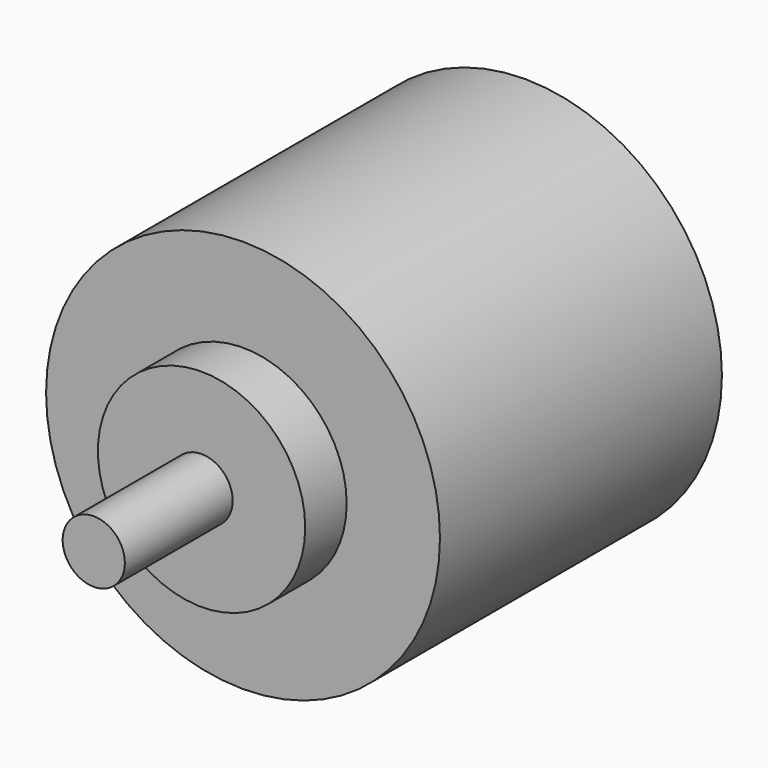
from build123d import *

# Parameters (mm, degrees)
SKETCH002_R  = 19
PAD002_DEPTH = 34
SKETCH036_R  = 10
PAD025_DEPTH = 5
SKETCH037_R  = 3
PAD026_DEPTH = 13


with BuildPart() as encoder:
    # Sketch002 → Pad002 (new body)
    with BuildSketch(Plane(origin=(0, 82, 3), x_dir=(1, 0, 0), z_dir=(0, -1, 0))):
        with Locations((38, -5)):
            Circle(SKETCH002_R)
    extrude(amount=-PAD002_DEPTH)


with BuildPart() as encoder_shaft:
    # Sketch036 → Pad025 (new body)
    with BuildSketch(Plane.XZ.offset(-80)):
        with Locations((38, -5)):
            Circle(SKETCH036_R)
    extrude(amount=-PAD025_DEPTH)

    # Sketch037 → Pad026 (join)
    with BuildSketch(Plane.XZ.offset(-80)):
        with Locations((38, -5)):
            Circle(SKETCH037_R)
    extrude(amount=PAD026_DEPTH)


with BuildPart() as encoder_shaft_1:
    # Body009 placement: moved
    add(encoder_shaft.part.moved(Location((0, -3, 3))))


solid = Compound([encoder.part, encoder_shaft_1.part])
